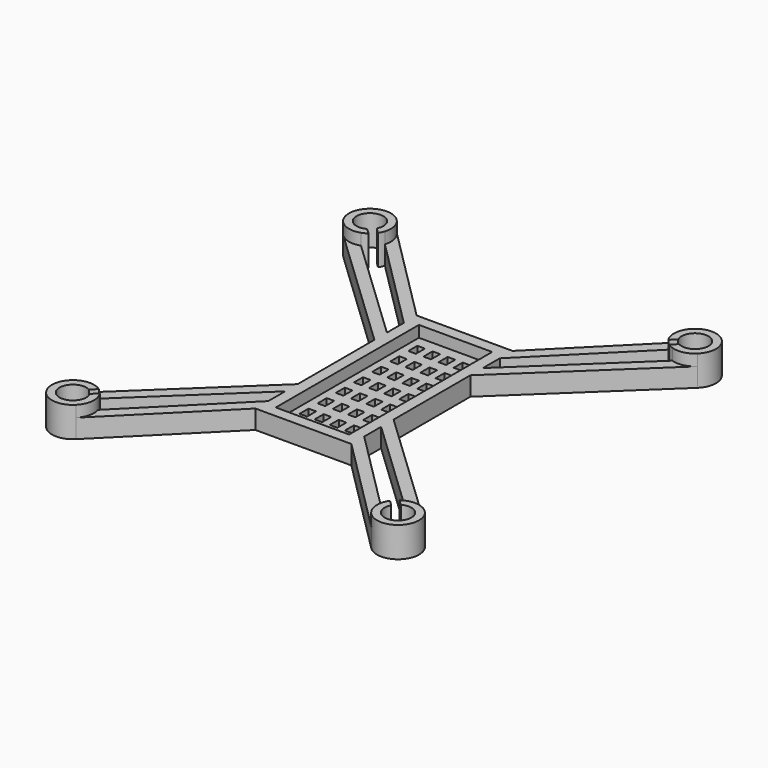
from build123d import *

# Parameters (mm, degrees)
F1_DEPTH = 5
F0_W     = 2
F0_H     = 3
F0_H_2   = 2.909016
F2_DEPTH = 2
F3_DEPTH = 8


with BuildPart() as f1:
    # F0 (on Top) → F1 (new body)
    with BuildSketch(Plane.XY):
        with BuildLine():
            ThreePointArc((3.928862, 102.199979), (5.398268, 99.586647), (5.295915, 96.590285))
            Line((5.295915, 96.590285), (30.323283, 71.562918))
            Line((30.323283, 71.562918), (30.323283, 65.971354))
            Line((30.323283, 65.971354), (1.818887, 93.021016))
            ThreePointArc((1.818887, 93.021016), (-1.173769, 92.840263), (-3.82467, 94.240756))
            Line((-3.82467, 94.240756), (30.323283, 61.835559))
            Line((30.323283, 61.835559), (30.323283, 36.435559))
            Line((30.323283, 36.435559), (-3.82467, 4.030361))
            ThreePointArc((-3.82467, 4.030361), (-1.173769, 5.430855), (1.818887, 5.250101))
            Line((1.818887, 5.250101), (30.323283, 32.299763))
            Line((30.323283, 32.299763), (30.323283, 26.708199))
            Line((30.323283, 26.708199), (5.295915, 1.680832))
            ThreePointArc((5.295915, 1.680832), (5.398268, -1.31553), (3.928862, -3.928862))
            Line((3.928862, -3.928862), (30.323283, 22.465559))
            Line((30.323283, 22.465559), (55.723283, 22.465559))
            Line((55.723283, 22.465559), (82.117703, -3.928862))
            ThreePointArc((82.117703, -3.928862), (80.648298, -1.31553), (80.75065, 1.680832))
            Line((80.75065, 1.680832), (55.723283, 26.708199))
            Line((55.723283, 26.708199), (55.723283, 32.299763))
            Line((55.723283, 32.299763), (84.227679, 5.250101))
            ThreePointArc((84.227679, 5.250101), (87.220334, 5.430855), (89.871235, 4.030361))
            Line((89.871235, 4.030361), (55.723283, 36.435559))
            Line((55.723283, 36.435559), (55.723283, 61.835559))
            Line((55.723283, 61.835559), (89.871235, 94.240756))
            ThreePointArc((89.871235, 94.240756), (87.220334, 92.840263), (84.227679, 93.021016))
            Line((84.227679, 93.021016), (55.723283, 65.971354))
            Line((55.723283, 65.971354), (55.723283, 71.562918))
            Line((55.723283, 71.562918), (80.75065, 96.590285))
            ThreePointArc((80.75065, 96.590285), (80.648298, 99.586647), (82.117703, 102.199979))
            Line((82.117703, 102.199979), (55.723283, 75.805559))
            Line((55.723283, 75.805559), (30.323283, 75.805559))
            Line((30.323283, 75.805559), (3.928862, 102.199979))
        make_face()
        Polygon((33.323283, 25.465559), (33.323283, 72.805559), (52.723283, 72.805559), (52.723283, 69.805559), (52.723283, 66.805559), (52.723283, 63.805559), (52.723283, 60.805559), (52.723283, 57.805559), (52.723283, 54.805559), (52.723283, 51.805559), (52.723283, 48.805559), (52.723283, 45.805559), (52.723283, 42.805559), (52.723283, 39.805559), (52.723283, 36.805559), (52.723283, 33.805559), (52.723283, 30.805559), (52.723283, 27.805559), (52.723283, 25.465559), (51.323283, 25.465559), (49.323283, 25.465559), (47.323283, 25.465559), (45.323283, 25.465559), (43.323283, 25.465559), (41.323283, 25.465559), (39.323283, 25.465559), (37.323283, 25.465559), (35.323283, 25.465559), align=None, mode=Mode.SUBTRACT)
    extrude(amount=F1_DEPTH)

    # F0 (on Top) → F2 (join)
    with BuildSketch(Plane.XY):
        Polygon((52.723283, 72.805559), (33.323283, 72.805559), (33.323283, 25.465559), (35.323283, 25.465559), (35.323283, 27.805559), (37.323283, 27.805559), (37.323283, 25.465559), (39.323283, 25.465559), (39.323283, 27.805559), (41.323283, 27.805559), (41.323283, 25.465559), (43.323283, 25.465559), (43.323283, 27.805559), (45.323283, 27.805559), (45.323283, 25.465559), (47.323283, 25.465559), (47.323283, 27.805559), (49.323283, 27.805559), (49.323283, 25.465559), (51.323283, 25.465559), (51.323283, 27.805559), (52.723283, 27.805559), (52.723283, 30.805559), (51.323283, 30.805559), (51.323283, 33.805559), (52.723283, 33.805559), (52.723283, 36.805559), (51.323283, 36.805559), (51.323283, 39.805559), (52.723283, 39.805559), (52.723283, 42.805559), (51.323283, 42.805559), (51.323283, 45.805559), (52.723283, 45.805559), (52.723283, 48.805559), (51.403247, 48.805559), (51.403247, 51.805559), (52.723283, 51.805559), (52.723283, 54.805559), (51.323283, 54.805559), (51.323283, 57.805559), (52.723283, 57.805559), (52.723283, 60.805559), (51.323283, 60.805559), (51.323283, 63.805559), (52.723283, 63.805559), (52.723283, 66.805559), (51.323283, 66.805559), (51.323283, 69.805559), (52.723283, 69.805559), align=None)
        with Locations((36.323283, 32.305559)):
            Rectangle(F0_W, F0_H, mode=Mode.SUBTRACT)
        with Locations((40.323283, 32.305559)):
            Rectangle(F0_W, F0_H, mode=Mode.SUBTRACT)
        with Locations((36.323283, 38.305559)):
            Rectangle(F0_W, F0_H, mode=Mode.SUBTRACT)
        with Locations((40.323283, 38.305559)):
            Rectangle(F0_W, F0_H, mode=Mode.SUBTRACT)
        with Locations((36.323283, 44.305559)):
            Rectangle(F0_W, F0_H, mode=Mode.SUBTRACT)
        with Locations((40.323283, 44.305559)):
            Rectangle(F0_W, F0_H, mode=Mode.SUBTRACT)
        with Locations((44.323283, 32.305559)):
            Rectangle(F0_W, F0_H, mode=Mode.SUBTRACT)
        with Locations((48.323283, 32.305559)):
            Rectangle(F0_W, F0_H, mode=Mode.SUBTRACT)
        with Locations((44.323283, 38.305559)):
            Rectangle(F0_W, F0_H, mode=Mode.SUBTRACT)
        with Locations((48.323283, 38.305559)):
            Rectangle(F0_W, F0_H, mode=Mode.SUBTRACT)
        with Locations((44.323283, 44.351051)):
            Rectangle(F0_W, F0_H_2, mode=Mode.SUBTRACT)
        with Locations((48.323283, 44.305559)):
            Rectangle(F0_W, F0_H, mode=Mode.SUBTRACT)
        with Locations((36.323283, 50.305559)):
            Rectangle(F0_W, F0_H, mode=Mode.SUBTRACT)
        with Locations((40.323283, 50.305559)):
            Rectangle(F0_W, F0_H, mode=Mode.SUBTRACT)
        with Locations((36.323283, 56.305559)):
            Rectangle(F0_W, F0_H, mode=Mode.SUBTRACT)
        with Locations((36.323283, 62.305559)):
            Rectangle(F0_W, F0_H, mode=Mode.SUBTRACT)
        with Locations((40.323283, 56.305559)):
            Rectangle(F0_W, F0_H, mode=Mode.SUBTRACT)
        with Locations((40.323283, 62.305559)):
            Rectangle(F0_W, F0_H, mode=Mode.SUBTRACT)
        with Locations((36.323283, 68.305559)):
            Rectangle(F0_W, F0_H, mode=Mode.SUBTRACT)
        with Locations((40.323283, 68.305559)):
            Rectangle(F0_W, F0_H, mode=Mode.SUBTRACT)
        with Locations((44.323283, 50.305559)):
            Rectangle(F0_W, F0_H, mode=Mode.SUBTRACT)
        with Locations((48.323283, 50.305559)):
            Rectangle(F0_W, F0_H, mode=Mode.SUBTRACT)
        with Locations((44.323283, 56.305559)):
            Rectangle(F0_W, F0_H, mode=Mode.SUBTRACT)
        with Locations((48.323283, 56.305559)):
            Rectangle(F0_W, F0_H, mode=Mode.SUBTRACT)
        with Locations((44.323283, 62.305559)):
            Rectangle(F0_W, F0_H, mode=Mode.SUBTRACT)
        with Locations((48.323283, 62.305559)):
            Rectangle(F0_W, F0_H, mode=Mode.SUBTRACT)
        with Locations((44.323283, 68.305559)):
            Rectangle(F0_W, F0_H, mode=Mode.SUBTRACT)
        with Locations((48.323283, 68.305559)):
            Rectangle(F0_W, F0_H, mode=Mode.SUBTRACT)
    extrude(amount=F2_DEPTH)

    # F0 (on Top) → F3 (join)
    with BuildSketch(Plane.XY):
        with BuildLine():
            Line((3.148053, 96.616827), (4.604099, 95.160781))
            ThreePointArc((4.604099, 95.160781), (5.001344, 95.850689), (5.295915, 96.590285))
            ThreePointArc((5.295915, 96.590285), (5.398268, 99.586647), (3.928862, 102.199979))
            ThreePointArc((3.928862, 102.199979), (-3.979953, 102.148215), (-3.82467, 94.240756))
            ThreePointArc((-3.82467, 94.240756), (-1.173769, 92.840263), (1.818887, 93.021016))
            ThreePointArc((1.818887, 93.021016), (2.550519, 93.334847), (3.229791, 93.750015))
            Line((3.229791, 93.750015), (1.73613, 95.167447))
            ThreePointArc((1.73613, 95.167447), (-2.547349, 100.752634), (3.148053, 96.616827))
        make_face()
        with BuildLine():
            ThreePointArc((89.871235, 94.240756), (90.026518, 102.148215), (82.117703, 102.199979))
            ThreePointArc((82.117703, 102.199979), (80.648298, 99.586647), (80.75065, 96.590285))
            ThreePointArc((80.75065, 96.590285), (81.013968, 95.916362), (81.362625, 95.282368))
            Line((81.362625, 95.282368), (82.856287, 96.6998))
            ThreePointArc((82.856287, 96.6998), (88.626178, 100.719078), (84.310436, 95.167447))
            Line((84.310436, 95.167447), (82.816774, 93.750015))
            ThreePointArc((82.816774, 93.750015), (83.496046, 93.334847), (84.227679, 93.021016))
            ThreePointArc((84.227679, 93.021016), (87.220334, 92.840263), (89.871235, 94.240756))
        make_face()
        with BuildLine():
            ThreePointArc((82.117703, -3.928862), (90.026518, -3.877098), (89.871235, 4.030361))
            ThreePointArc((89.871235, 4.030361), (87.220334, 5.430855), (84.227679, 5.250101))
            ThreePointArc((84.227679, 5.250101), (83.496046, 4.936271), (82.816774, 4.521102))
            Line((82.816774, 4.521102), (84.304361, 3.097296))
            ThreePointArc((84.304361, 3.097296), (88.592061, -2.479712), (82.904725, 1.66053))
            Line((82.904725, 1.66053), (81.442467, 3.110336))
            ThreePointArc((81.442467, 3.110336), (81.045222, 2.420429), (80.75065, 1.680832))
            ThreePointArc((80.75065, 1.680832), (80.648298, -1.31553), (82.117703, -3.928862))
        make_face()
        with BuildLine():
            ThreePointArc((1.818887, 5.250101), (-1.173769, 5.430855), (-3.82467, 4.030361))
            ThreePointArc((-3.82467, 4.030361), (-3.979953, -3.877098), (3.928862, -3.928862))
            ThreePointArc((3.928862, -3.928862), (5.398268, -1.31553), (5.295915, 1.680832))
            ThreePointArc((5.295915, 1.680832), (4.986377, 2.451113), (4.565529, 3.166679))
            Line((4.565529, 3.166679), (3.127486, 1.692851))
            ThreePointArc((3.127486, 1.692851), (-2.532053, -2.497123), (1.73613, 3.10367))
            Line((1.73613, 3.10367), (3.229791, 4.521102))
            ThreePointArc((3.229791, 4.521102), (2.550519, 4.936271), (1.818887, 5.250101))
        make_face()
    extrude(amount=F3_DEPTH)


solid = f1.part
